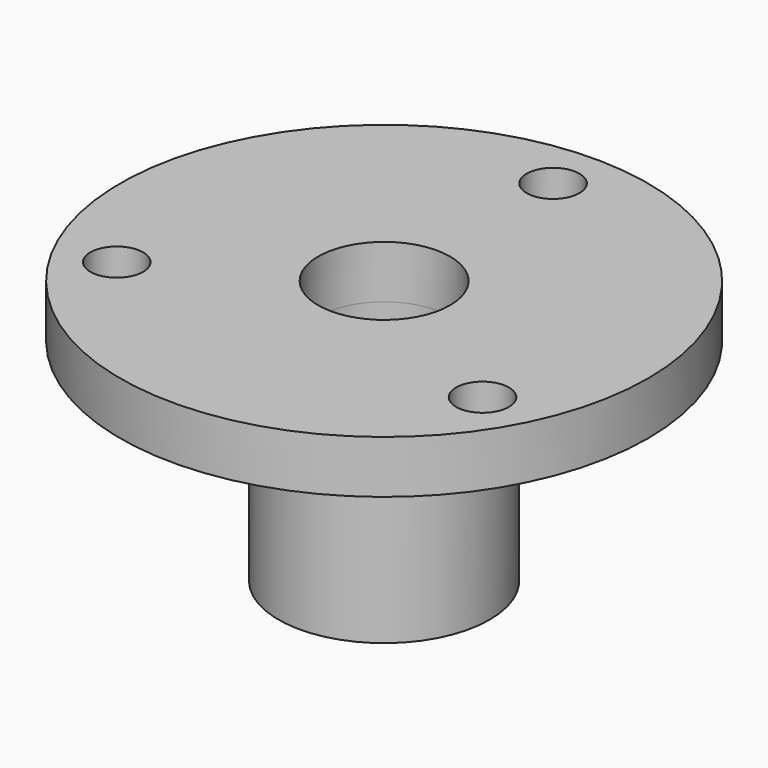
from build123d import *

# Parameters (mm, degrees)
F0_R     = 63.5
F0_R_2   = 6.35
F0_R_3   = 25.4
F0_R_4   = 15.875
F1_DEPTH = 12.7
F2_DEPTH = 50.8


with BuildPart() as f1:
    # F0 (on Top) → F1 (new body)
    with BuildSketch(Plane.XY):
        Circle(F0_R)
        with Locations((-43.994091, -25.4)):
            Circle(F0_R_2, mode=Mode.SUBTRACT)
        with Locations((43.994091, -25.4)):
            Circle(F0_R_2, mode=Mode.SUBTRACT)
        Circle(F0_R_3, mode=Mode.SUBTRACT)
        with Locations((0, 50.8)):
            Circle(F0_R_2, mode=Mode.SUBTRACT)
        Circle(F0_R_3)
        Circle(F0_R_4, mode=Mode.SUBTRACT)
    extrude(amount=F1_DEPTH)

    # F0 (on Top) → F2 (join)
    with BuildSketch(Plane.XY):
        Circle(F0_R_3)
        Circle(F0_R_4, mode=Mode.SUBTRACT)
    extrude(amount=-F2_DEPTH)


solid = f1.part
